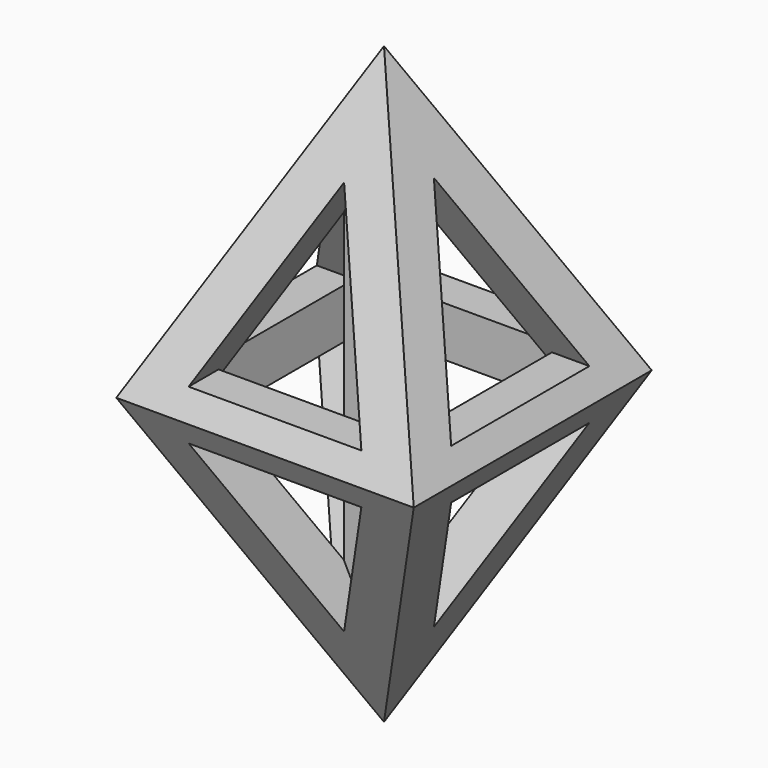
from build123d import *

# Parameters (mm, degrees)
F0_W      = 25.4
F0_H      = 50.8
F1_DEPTH  = 25.4
F5_DEPTH  = 25.4
F6_DEPTH  = 25.4
F4_W      = 3.81
F4_H      = 3.81
F7_DEPTH  = 50.8
F9_DEPTH  = 25.4
F10_W     = 4.259707
F10_H     = 4.259707
F11_DEPTH = 25.4
F12_DEPTH = 25.4
F13_DEPTH = 25.4


with BuildPart() as f1:
    # F0 (on Right) → F1 (new body)
    with BuildSketch(Plane.YZ):
        Rectangle(F0_W, F0_H)
    extrude(amount=F1_DEPTH)

    # F2 (on face) → F5 (cut)
    with BuildSketch(Plane(origin=(0, 0, 0), x_dir=(0, -1, 0), z_dir=(-1, 0, 0))):
        Polygon((8.4402905029, 0), (0, 16.8805810057), (-8.4402905029, 0), (0, -16.8805810057), align=None)
    extrude(amount=-F5_DEPTH, mode=Mode.SUBTRACT)

    # F3 (on face) → F6 (cut)
    with BuildSketch(Plane(origin=(0, 12.7, 0), x_dir=(-1, 0, 0), z_dir=(0, 1, 0))):
        Polygon((-12.7, 16.8805810057), (-21.1402905029, 0), (-12.7, -16.8805810057), (-4.2597094971, 0), align=None)
    extrude(amount=-F6_DEPTH, mode=Mode.SUBTRACT)

    # F4 (on face) → F7 (join)
    with BuildSketch(Plane(origin=(0, 0, -25.4), x_dir=(1, 0, 0), z_dir=(0, 0, -1))):
        with Locations((12.7, 0)):
            Rectangle(F4_W, F4_H)
    extrude(amount=-F7_DEPTH)

    # F8 (on face) → F9 (join)
    with BuildSketch(Plane.YZ.offset(25.4)):
        Polygon((-12.7, 2.1298535), (-12.7, -2.1298535), (-8.4402905029, -2.1298535), (-8.4402905029, 0), (-8.4402905029, 2.1298535), align=None)
        Polygon((8.4402905029, -2.1298535), (12.7, -2.1298535), (12.7, 2.1298535), (8.4402905029, 2.1298535), (8.4402905029, 0), align=None)
    extrude(amount=-F9_DEPTH)

    # F10 (on face) → F11 (join)
    with BuildSketch(Plane.XZ.offset(12.7)):
        with Locations((2.1298535, 0)):
            Rectangle(F10_W, F10_H)
        with Locations((23.2701465, 0)):
            Rectangle(F10_W, F10_H)
    extrude(amount=-F11_DEPTH)

    # F3 (on face) → F12 (cut)
    with BuildSketch(Plane(origin=(0, 12.7, 0), x_dir=(-1, 0, 0), z_dir=(0, 1, 0))):
        Polygon((0, 25.4), (-12.7, 25.4), (0, 0), align=None)
        Polygon((-25.4, 0), (-12.7, 25.4), (-25.4, 25.4), align=None)
        Polygon((-12.7, -25.4), (-25.4, 0), (-25.4, -25.4), align=None)
        Polygon((0, -25.4), (0, 0), (-12.7, -25.4), align=None)
    extrude(amount=-F12_DEPTH, mode=Mode.SUBTRACT)

    # F2 (on face) → F13 (cut)
    with BuildSketch(Plane(origin=(0, 0, 0), x_dir=(0, -1, 0), z_dir=(-1, 0, 0))):
        Polygon((-12.7, 0), (0, 25.4), (-12.7, 25.4), align=None)
        Polygon((12.7, 25.4), (0, 25.4), (12.7, 0), align=None)
        Polygon((12.7, -25.4), (12.7, 0), (0, -25.4), align=None)
        Polygon((0, -25.4), (-12.7, 0), (-12.7, -25.4), align=None)
    extrude(amount=-F13_DEPTH, mode=Mode.SUBTRACT)


solid = f1.part
